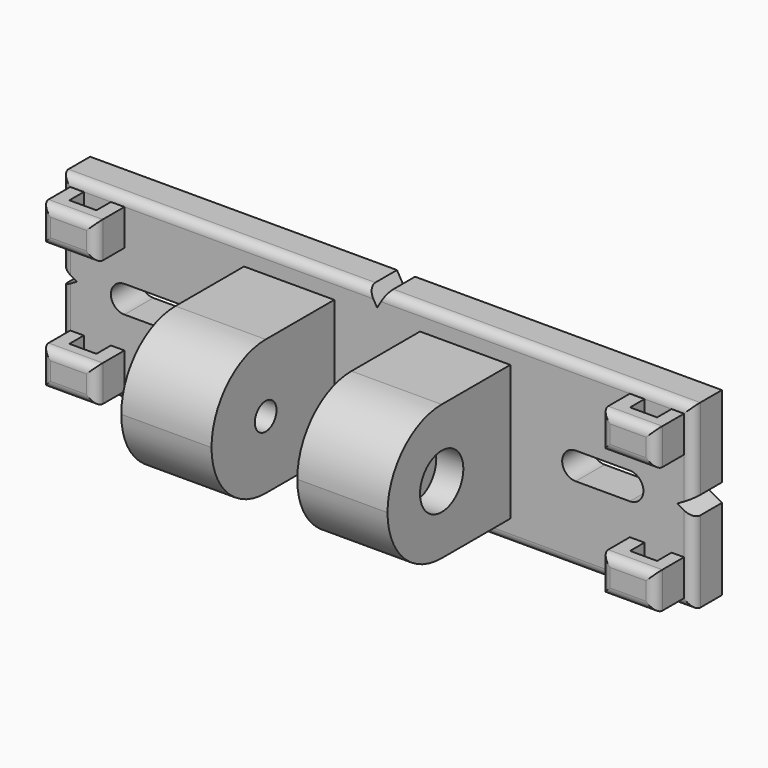
from build123d import *

# Parameters (mm, degrees)
SKETCH001_W         = 10
SKETCH001_H         = 15
PAD001_DEPTH        = 21
FILLET001_R         = 7.499
SKETCH005_W         = 10
SKETCH005_H         = 15
PAD002_DEPTH        = 21
FILLET002_R         = 7.499
PAD_DEPTH           = 4
FILLET_R            = 1
SKETCH008_W         = 6
SKETCH008_H         = 4
PAD003_DEPTH        = 8
SKETCH009_W         = 6
SKETCH009_H         = 4
PAD004_DEPTH        = 8
SKETCH010_W         = 6
SKETCH010_H         = 4
PAD005_DEPTH        = 8
SKETCH011_W         = 6
SKETCH011_H         = 4
PAD006_DEPTH        = 8
FILLET003_R         = 1
HOLE001_D           = 3
HOLE001_DEPTH       = 100
HOLE001_CBORE_D     = 6
HOLE001_CBORE_DEPTH = 3
SKETCH013_W         = 3
SKETCH013_H         = 2
POCKET_DEPTH        = 15
SKETCH014_W         = 3
SKETCH014_H         = 2
POCKET001_DEPTH     = 15


with BuildPart() as left_hinge:
    # Sketch001 → Pad001 (new body)
    with BuildSketch(Plane.XZ):
        with Locations((-9.75, 0)):
            Rectangle(SKETCH001_W, SKETCH001_H)
    extrude(amount=PAD001_DEPTH)

    # Fillet001
    fillet001_edges = [left_hinge.edges().sort_by_distance(p)[0] for p in [
        (-9.75, -21, -7.5),
        (-9.75, -21, 7.5),
    ]]
    fillet(fillet001_edges, radius=FILLET001_R)


with BuildPart() as body002:
    # Sketch005 → Pad002 (new body)
    with BuildSketch(Plane.XZ):
        with Locations((9.75, 0)):
            Rectangle(SKETCH005_W, SKETCH005_H)
    extrude(amount=PAD002_DEPTH)

    # Fillet002
    fillet002_edges = [body002.edges().sort_by_distance(p)[0] for p in [
        (9.75, -21, -7.5),
        (9.75, -21, 7.5),
    ]]
    fillet(fillet002_edges, radius=FILLET002_R)


with BuildPart() as base:
    # Sketch → Pad (new body)
    with BuildSketch(Plane.XZ):
        Polygon((-35, 10), (-1, 10), (0, 8.267949), (1, 10), (35, 10), (35, 1), (33.267949, 0), (35, -1), (35, -10), (1, -10), (0, -8.267949), (-1, -10), (-35, -10), (-35, -1), (-33.267949, 0), (-35, 1), align=None)
        with BuildLine():
            ThreePointArc((-28, 1.5), (-29.5, 0), (-28, -1.5))
            Line((-28, -1.5), (-22, -1.5))
            ThreePointArc((-22, -1.5), (-20.5, 0), (-22, 1.5))
            Line((-28, 1.5), (-22, 1.5))
        make_face(mode=Mode.SUBTRACT)
        with BuildLine():
            ThreePointArc((22, 1.5), (20.5, 0), (22, -1.5))
            Line((22, -1.5), (28, -1.5))
            ThreePointArc((28, -1.5), (29.5, 0), (28, 1.5))
            Line((22, 1.5), (28, 1.5))
        make_face(mode=Mode.SUBTRACT)
    extrude(amount=PAD_DEPTH)

    # Fillet
    fillet_edges = [base.edges().sort_by_distance(p)[0] for p in [
        (-18, -4, -10),
        (18, -4, -10),
        (35, -4, -5.5),
        (35, -4, 5.5),
        (18, -4, 10),
        (-18, -4, 10),
        (-35, -4, 5.5),
        (-35, -4, -5.5),
    ]]
    fillet(fillet_edges, radius=FILLET_R)

    # Boolean: union Left hinge
    add(left_hinge.part)

    # Boolean001: union Body002
    add(body002.part)

    # Sketch008 → Pad003 (join)
    with BuildSketch(Plane.XZ):
        with Locations((-31, 7)):
            Rectangle(SKETCH008_W, SKETCH008_H)
    extrude(amount=PAD003_DEPTH)

    # Sketch009 → Pad004 (join)
    with BuildSketch(Plane.XZ):
        with Locations((31, 7)):
            Rectangle(SKETCH009_W, SKETCH009_H)
    extrude(amount=PAD004_DEPTH)

    # Sketch010 → Pad005 (join)
    with BuildSketch(Plane.XZ):
        with Locations((-31, -7)):
            Rectangle(SKETCH010_W, SKETCH010_H)
    extrude(amount=PAD005_DEPTH)

    # Sketch011 → Pad006 (join)
    with BuildSketch(Plane.XZ):
        with Locations((31, -7)):
            Rectangle(SKETCH011_W, SKETCH011_H)
    extrude(amount=PAD006_DEPTH)

    # Fillet003
    fillet003_edges = [base.edges().sort_by_distance(p)[0] for p in [
        (-34, -8, 7),
        (-31, -8, 5),
        (-28, -8, 7),
        (-31, -8, 9),
        (-34, -8, -7),
        (-31, -8, -9),
        (-28, -8, -7),
        (-31, -8, -5),
        (28, -8, -7),
        (31, -8, -9),
        (34, -8, -7),
        (31, -8, -5),
        (28, -8, 7),
        (31, -8, 5),
        (34, -8, 7),
        (31, -8, 9),
    ]]
    fillet(fillet003_edges, radius=FILLET003_R)

    # Hole001
    with Locations(Plane.YZ.offset(14.75)):
        with Locations((-13.5, 0)):
            CounterBoreHole(HOLE001_D / 2, HOLE001_CBORE_D / 2, HOLE001_CBORE_DEPTH, depth=HOLE001_DEPTH)

    # Sketch013 → Pocket (cut, symmetric)
    with BuildSketch(Plane.XY):
        with Locations((-31, -5)):
            Rectangle(SKETCH013_W, SKETCH013_H)
    extrude(amount=POCKET_DEPTH, both=True, mode=Mode.SUBTRACT)

    # Sketch014 → Pocket001 (cut, symmetric)
    with BuildSketch(Plane.XY):
        with Locations((31.120665, -5)):
            Rectangle(SKETCH014_W, SKETCH014_H)
    extrude(amount=POCKET001_DEPTH, both=True, mode=Mode.SUBTRACT)


solid = base.part
